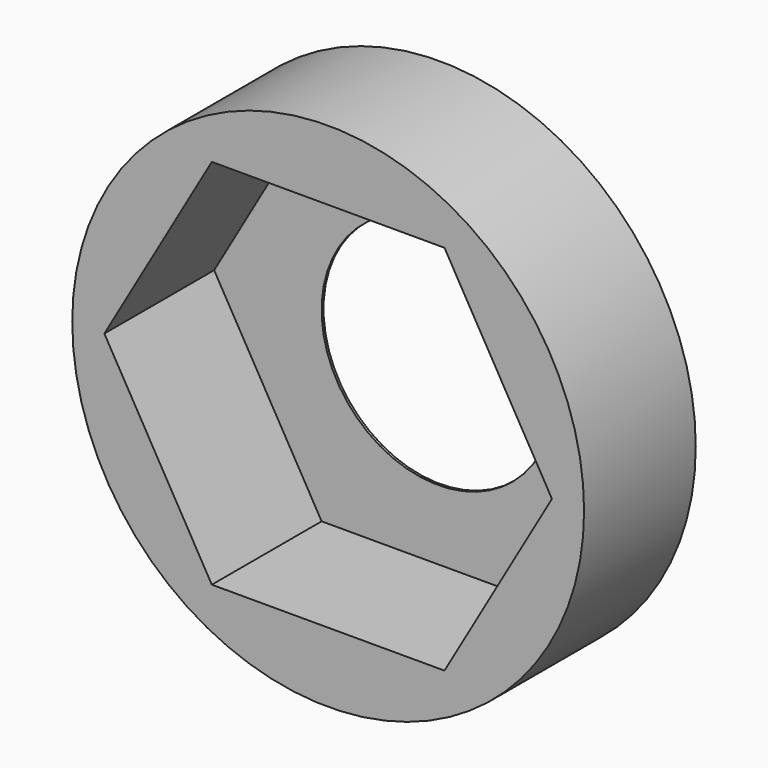
from build123d import *

# Parameters (mm, degrees)
F0_R     = 5.5000017
F1_DEPTH = 2.999994
F2_R     = 2.499995
F2_W     = 0.7533299053
F2_H     = 0.7162170781
F2_W_2   = 0.5293672881
F2_H_2   = 0.5760601295
F2_W_3   = 0.6473100061
F2_H_3   = 0.7012212299
F2_W_4   = 0.3967036741
F2_H_4   = 0.5668902525
F2_W_5   = 0.5837015153
F2_H_5   = 1.7340490769
F2_W_6   = 0.5672975831
F2_H_6   = 1.9103930295
F3_DEPTH = 0.0508


with BuildPart() as f1:
    # F0 (on Front) → F1 (new body)
    with BuildSketch(Plane.XZ):
        Circle(F0_R)
        Polygon((2.499995, -4.0000047), (-2.499995, -4.0000047), (-4.8093987903, 0), (-2.499995, 4.0000047), (2.499995, 4.0000047), (4.8093987903, 0), align=None, mode=Mode.SUBTRACT)
    extrude(amount=F1_DEPTH)

    # F2 (on Front) → F3 (join)
    with BuildSketch(Plane.XZ):
        Polygon((-3.3830750486, -2.5726628955), (-3.3830750486, -4.0979331759), (3.3830750486, -4.0979331759), (3.3830750486, -2.7493634261), (3.3830750486, -2.1733032967), (3.3830750486, 2.3381632997), (3.3830750486, 2.9050535522), (3.3830750486, 4.0979331759), (-3.3830750486, 4.0979331759), (-3.3830750486, 2.7106830385), (-3.3830750486, 2.0094618085), (-3.3830750486, -1.8564458175), align=None)
        Circle(F2_R, mode=Mode.SUBTRACT)
        with Locations((-3.7597400012, -2.2145543565)):
            Rectangle(F2_W, F2_H)
        with Locations((3.6477586926, -2.4613333614)):
            Rectangle(F2_W_2, F2_H_2)
        Polygon((-4.1364049539, -1.8564458175), (-3.3830750486, -1.8564458175), (-3.3830750486, 2.0094618085), (-4.0303850546, 2.0094618085), (-4.5122085367, 2.0094618085), (-4.5122085367, 0.8686301033), (-4.5122085367, -0.8654189736), (-4.5122085367, -1.8564458175), align=None)
        Polygon((3.3830750486, 2.3381632997), (3.3830750486, -2.1733032967), (3.9124423367, -2.1733032967), (4.4418096248, -2.1733032967), (4.4418096248, -0.8654189736), (4.4418096248, 1.0449740559), (4.4418096248, 2.3381632997), (3.7797787227, 2.3381632997), align=None)
        with Locations((-3.7067300516, 2.3600724235)):
            Rectangle(F2_W_3, F2_H_3)
        with Locations((3.5814268856, 2.621608426)):
            Rectangle(F2_W_4, F2_H_4)
        with Locations((-4.8040592943, 0.0016055649)):
            Rectangle(F2_W_5, F2_H_5)
        with Locations((4.7254584164, 0.0897775412)):
            Rectangle(F2_W_6, F2_H_6)
    extrude(amount=F3_DEPTH)


solid = f1.part
